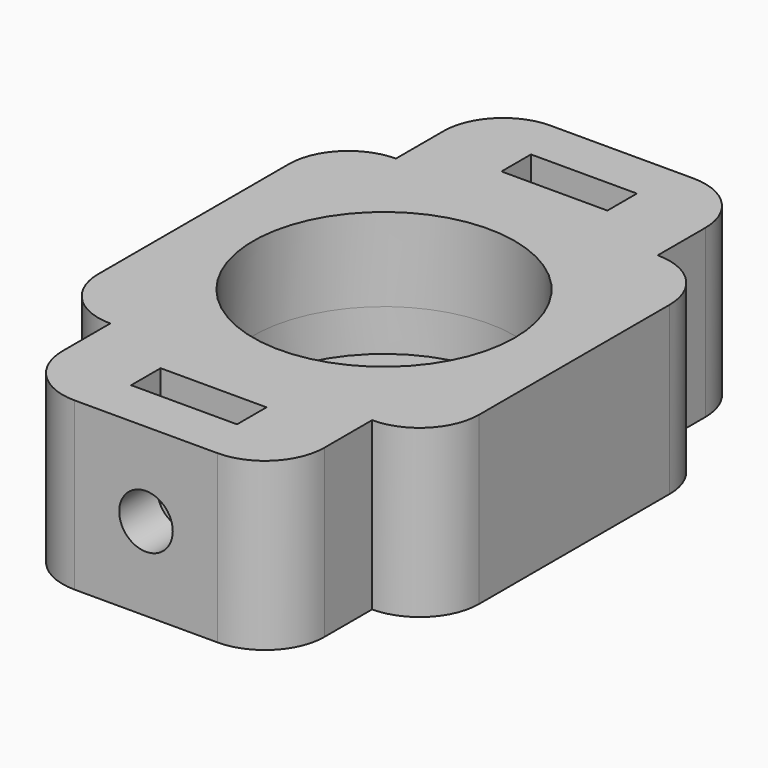
from build123d import *

# Parameters (mm, degrees)
F0_W          = 8.9
F0_H          = 3.1
F0_R          = 11
F1_DEPTH      = 7
F1_DEPTH_BACK = 7
F2_R          = 2.25
F3_DEPTH      = 10
F4_R          = 2.25
F5_DEPTH      = 10
F6_R          = 11.25
F6_R_2        = 8.5
F7_DEPTH      = 3.5


with BuildPart() as f1:
    # F0 (on Top) → F1 (new body, two sides)
    with BuildSketch(Plane.XY) as f1_sk:
        with BuildLine():
            Line((-16, 10), (-16, -10))
            ThreePointArc((-16, -10), (-14.535534, -13.535534), (-11, -15))
            Line((-11, -15), (-11, -20))
            ThreePointArc((-11, -20), (-9.535534, -23.535534), (-6, -25))
            Line((-6, -25), (6, -25))
            ThreePointArc((6, -25), (9.535534, -23.535534), (11, -20))
            Line((11, -20), (11, -15))
            ThreePointArc((11, -15), (14.535534, -13.535534), (16, -10))
            Line((16, -10), (16, 10))
            ThreePointArc((16, 10), (14.535534, 13.535534), (11, 15))
            Line((11, 15), (11, 20))
            ThreePointArc((11, 20), (9.535534, 23.535534), (6, 25))
            Line((6, 25), (-6, 25))
            ThreePointArc((-6, 25), (-9.535534, 23.535534), (-11, 20))
            Line((-11, 20), (-11, 15))
            ThreePointArc((-11, 15), (-14.535534, 13.535534), (-16, 10))
        make_face()
        with Locations((0, -19.45)):
            Rectangle(F0_W, F0_H, mode=Mode.SUBTRACT)
        Circle(F0_R, mode=Mode.SUBTRACT)
        with Locations((0, 19.45)):
            Rectangle(F0_W, F0_H, mode=Mode.SUBTRACT)
    extrude(amount=F1_DEPTH)
    extrude(f1_sk.sketch, amount=-F1_DEPTH_BACK)

    # F2 (on face) → F3 (cut)
    with BuildSketch(Plane.XZ.offset(25)):
        Circle(F2_R)
    extrude(amount=-F3_DEPTH, mode=Mode.SUBTRACT)

    # F4 (on face) → F5 (cut)
    with BuildSketch(Plane(origin=(0, 25, 0), x_dir=(-1, 0, 0), z_dir=(0, 1, 0))):
        Circle(F4_R)
    extrude(amount=-F5_DEPTH, mode=Mode.SUBTRACT)

    # F6 (on face) → F7 (join)
    with BuildSketch(Plane(origin=(0, 0, -7), x_dir=(1, 0, 0), z_dir=(0, 0, -1))):
        Circle(F6_R)
        Circle(F6_R_2, mode=Mode.SUBTRACT)
    extrude(amount=-F7_DEPTH)


solid = f1.part
